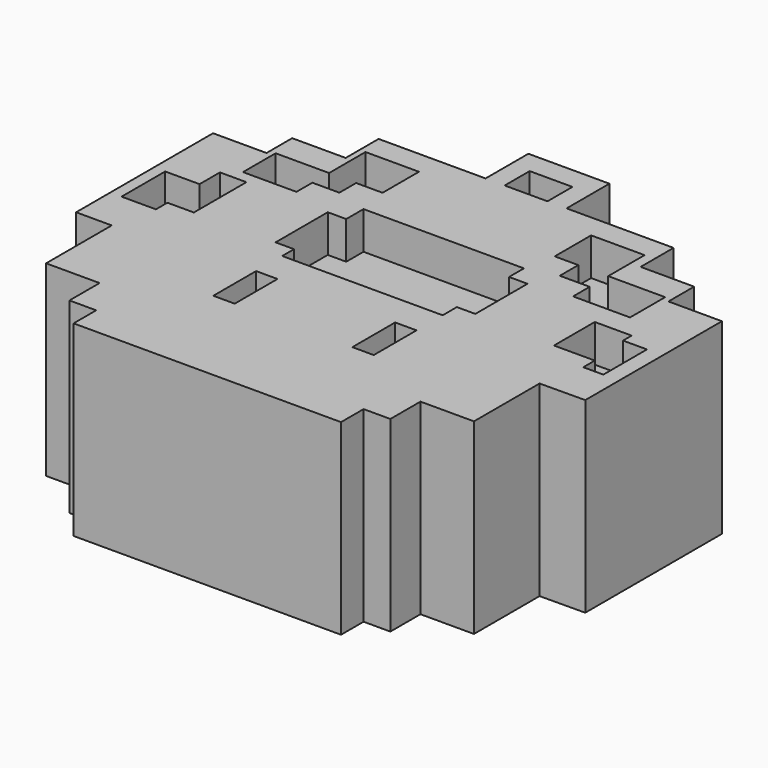
from build123d import *

# Parameters (mm, degrees)
F1_DEPTH = 44.45
F2_DEPTH = 38.1
F3_DEPTH = 8.92661


with BuildPart() as f1:
    # F0 (on Top) → F1 (new body)
    with BuildSketch(Plane.XY):
        Polygon((59.9326238802, -10.0844367775), (59.9326238802, 30.48), (47.2326238802, 30.48), (47.2326238802, 38.1), (34.5326238802, 38.1), (34.5326238802, 47.8773999231), (9.1326238802, 47.8773999231), (4.5917662157, 47.8773999231), (-5.5682337843, 47.8773999231), (-10.1090914488, 47.8773999231), (-35.5090914488, 47.8773999231), (-35.5090914488, 38.1), (-48.2090914488, 38.1), (-48.2090914488, 30.48), (-60.9090914488, 30.48), (-60.9090914488, -10.16), (-52.4551342213, -10.16), (-37.2151342213, -10.16), (-37.2151342213, -4.8143821768), (33.9048657787, -4.8143821768), (33.9048657787, -10.16), (49.1448657787, -10.16), align=None)
        Polygon((-58.2453422248, 12.9522867501), (-58.2453422248, 21.7635072768), (-46.8229997575, 21.7635072768), (-46.8229997575, 31.4483940601), (-34.1229997575, 31.4483940601), (-34.1229997575, 42.2507673502), (-21.4229997575, 42.2507673502), (19.4527748972, 42.2507673502), (32.1527748972, 42.2507673502), (32.1527748972, 31.4483940601), (45.6809252501, 31.4483940601), (45.6809252501, 21.018518135), (56.1551556194, 21.018518135), (56.1551556194, 12.9522867501), (56.1551556194, 0), (56.1551556194, -7.2993603218), (38.3249066973, -7.2993603218), (38.3249066973, -0.0041214007), (-40.4150933027, -0.0041214007), (-40.4150933027, -8.0205244012), (-58.2453422248, -8.0205244012), (-58.2453422248, 0), align=None, mode=Mode.SUBTRACT)
        Polygon((49.1448657787, -29.6408813447), (49.1448657787, -10.16), (33.9048657787, -10.16), (33.9048657787, -4.8143821768), (-37.2151342213, -4.8143821768), (-37.2151342213, -10.16), (-52.4551342213, -10.16), (-52.4551342213, -29.6408813447), (-39.7551342213, -29.6408813447), (-39.7551342213, -38.5807752609), (-33.4051342213, -38.5807752609), (-33.4051342213, -45.2856980264), (30.0948657787, -45.2856980264), (30.0948657787, -38.5807752609), (36.4448657787, -38.5807752609), (36.4448657787, -29.6408813447), align=None)
        Polygon((31.5474388957, -16.645764932), (44.2474388957, -16.645764932), (44.2474388957, -26.2884218246), (31.5474388957, -26.2884218246), (31.5474388957, -32.2483479977), (25.1974388957, -32.2483479977), (25.1974388957, -41.1882456392), (-28.3929689348, -41.1882456392), (-28.3929689348, -34.483326599), (-34.7429689348, -34.483326599), (-34.7429689348, -26.2884218246), (-47.4429689348, -26.2884218246), (-47.4429689348, -16.645764932), (-34.7429689348, -16.645764932), (-34.7429689348, -7.755764932), (-20.0950933027, -7.755764932), (-15.0150933027, -7.755764932), (12.9249066973, -7.755764932), (18.0049066973, -7.755764932), (31.5474388957, -7.755764932), align=None, mode=Mode.SUBTRACT)
        Polygon((-46.8229997575, 21.7635072768), (-58.2453422248, 21.7635072768), (-58.2453422248, 12.9522867501), (-50.0864312053, 12.9522867501), (-50.0864312053, 19.0039230511), (-43.8020415604, 19.0039230511), (-43.8020415604, 3.4093181603), (-50.0864312053, 3.4093181603), (-50.0864312053, 0), (-58.2453422248, 0), (-58.2453422248, -8.0205244012), (-40.4150933027, -8.0205244012), (-40.4150933027, -0.0041214007), (38.3249066973, -0.0041214007), (38.3249066973, -7.2993603218), (56.1551556194, -7.2993603218), (56.1551556194, 0), (51.3948649168, 0), (51.3948649168, 3.4093209542), (41.711854955, 3.4093209542), (41.711854955, 15.5125940219), (50.4638440907, 15.5125940219), (50.4638440907, 12.9522867501), (56.1551556194, 12.9522867501), (56.1551556194, 21.018518135), (45.6809252501, 21.018518135), (32.1527748972, 21.018518135), (32.1527748972, 25.9544569999), (25.0515304506, 25.9544569999), (25.0515304506, 31.4483940601), (19.4527748972, 31.4483940601), (19.4527748972, 42.2507673502), (-21.4229997575, 42.2507673502), (-21.4229997575, 31.4483940601), (-27.7042705566, 31.4483940601), (-27.7042705566, 26.4783278108), (-34.1229997575, 26.4783278108), (-34.1229997575, 21.7635072768), align=None)
        Polygon((18.0049066973, 0), (-20.0950933027, 0), (-20.0950933027, 3.511225339), (-24.4833528996, 3.511225339), (-24.4833528996, 19.0039230511), (-20.0950933027, 19.0039230511), (-20.0950933027, 24.1245422512), (18.0049066973, 24.1245422512), (18.0049066973, 19.702189602), (22.3931662941, 19.702189602), (22.3931662941, 4.2094918899), (18.0049066973, 4.2094918899), align=None, mode=Mode.SUBTRACT)
        Polygon((44.2474388957, -26.2884218246), (44.2474388957, -16.645764932), (31.5474388957, -16.645764932), (31.5474388957, -7.755764932), (18.0049066973, -7.755764932), (18.0049066973, -20.455764932), (12.9249066973, -20.455764932), (12.9249066973, -7.755764932), (-15.0150933027, -7.755764932), (-15.0150933027, -20.455764932), (-20.0950933027, -20.455764932), (-20.0950933027, -7.755764932), (-34.7429689348, -7.755764932), (-34.7429689348, -16.645764932), (-47.4429689348, -16.645764932), (-47.4429689348, -26.2884218246), (-34.7429689348, -26.2884218246), (-34.7429689348, -34.483326599), (-28.3929689348, -34.483326599), (-28.3929689348, -41.1882456392), (25.1974388957, -41.1882456392), (25.1974388957, -32.2483479977), (31.5474388957, -32.2483479977), (31.5474388957, -26.2884218246), align=None)
        Polygon((4.5917662157, 47.8773999231), (9.1326238802, 47.8773999231), (9.1326238802, 60.5773999231), (-10.1090914488, 60.5773999231), (-10.1090914488, 47.8773999231), (-5.5682337843, 47.8773999231), (-5.5682337843, 55.2843213081), (4.5917662157, 55.2843213081), align=None)
    extrude(amount=-F1_DEPTH)

    # F0 (on Top) → F2 (join)
    with BuildSketch(Plane.XY):
        Polygon((32.1527748972, 42.2507673502), (19.4527748972, 42.2507673502), (19.4527748972, 31.4483940601), (25.0515304506, 31.4483940601), (25.0515304506, 25.9544569999), (32.1527748972, 25.9544569999), (32.1527748972, 21.018518135), (45.6809252501, 21.018518135), (45.6809252501, 31.4483940601), (32.1527748972, 31.4483940601), align=None)
        Polygon((51.3948649168, 0), (56.1551556194, 0), (56.1551556194, 12.9522867501), (50.4638440907, 12.9522867501), (50.4638440907, 15.5125940219), (41.711854955, 15.5125940219), (41.711854955, 3.4093209542), (51.3948649168, 3.4093209542), align=None)
        Polygon((-20.0950933027, 3.511225339), (-20.0950933027, 0), (18.0049066973, 0), (18.0049066973, 4.2094918899), (22.3931662941, 4.2094918899), (22.3931662941, 19.702189602), (18.0049066973, 19.702189602), (18.0049066973, 24.1245422512), (-20.0950933027, 24.1245422512), (-20.0950933027, 19.0039230511), (-24.4833528996, 19.0039230511), (-24.4833528996, 3.511225339), align=None)
        Polygon((-46.8229997575, 31.4483940601), (-46.8229997575, 21.7635072768), (-34.1229997575, 21.7635072768), (-34.1229997575, 26.4783278108), (-27.7042705566, 26.4783278108), (-27.7042705566, 31.4483940601), (-21.4229997575, 31.4483940601), (-21.4229997575, 42.2507673502), (-34.1229997575, 42.2507673502), (-34.1229997575, 31.4483940601), align=None)
        Polygon((-50.0864312053, 12.9522867501), (-58.2453422248, 12.9522867501), (-58.2453422248, 0), (-50.0864312053, 0), (-50.0864312053, 3.4093181603), (-43.8020415604, 3.4093181603), (-43.8020415604, 19.0039230511), (-50.0864312053, 19.0039230511), align=None)
    extrude(amount=-F2_DEPTH)

    # F0 (on Top) → F3 (cut)
    with BuildSketch(Plane.XY):
        Polygon((-50.0864312053, 12.9522867501), (-58.2453422248, 12.9522867501), (-58.2453422248, 0), (-50.0864312053, 0), (-50.0864312053, 3.4093181603), (-43.8020415604, 3.4093181603), (-43.8020415604, 19.0039230511), (-50.0864312053, 19.0039230511), align=None)
        Polygon((-46.8229997575, 31.4483940601), (-46.8229997575, 21.7635072768), (-34.1229997575, 21.7635072768), (-34.1229997575, 26.4783278108), (-27.7042705566, 26.4783278108), (-27.7042705566, 31.4483940601), (-21.4229997575, 31.4483940601), (-21.4229997575, 42.2507673502), (-34.1229997575, 42.2507673502), (-34.1229997575, 31.4483940601), align=None)
        Polygon((-20.0950933027, 3.511225339), (-20.0950933027, 0), (18.0049066973, 0), (18.0049066973, 4.2094918899), (22.3931662941, 4.2094918899), (22.3931662941, 19.702189602), (18.0049066973, 19.702189602), (18.0049066973, 24.1245422512), (-20.0950933027, 24.1245422512), (-20.0950933027, 19.0039230511), (-24.4833528996, 19.0039230511), (-24.4833528996, 3.511225339), align=None)
        Polygon((32.1527748972, 42.2507673502), (19.4527748972, 42.2507673502), (19.4527748972, 31.4483940601), (25.0515304506, 31.4483940601), (25.0515304506, 25.9544569999), (32.1527748972, 25.9544569999), (32.1527748972, 21.018518135), (45.6809252501, 21.018518135), (45.6809252501, 31.4483940601), (32.1527748972, 31.4483940601), align=None)
        Polygon((51.3948649168, 0), (56.1551556194, 0), (56.1551556194, 12.9522867501), (50.4638440907, 12.9522867501), (50.4638440907, 15.5125940219), (41.711854955, 15.5125940219), (41.711854955, 3.4093209542), (51.3948649168, 3.4093209542), align=None)
    extrude(amount=-F3_DEPTH, mode=Mode.SUBTRACT)


solid = f1.part
